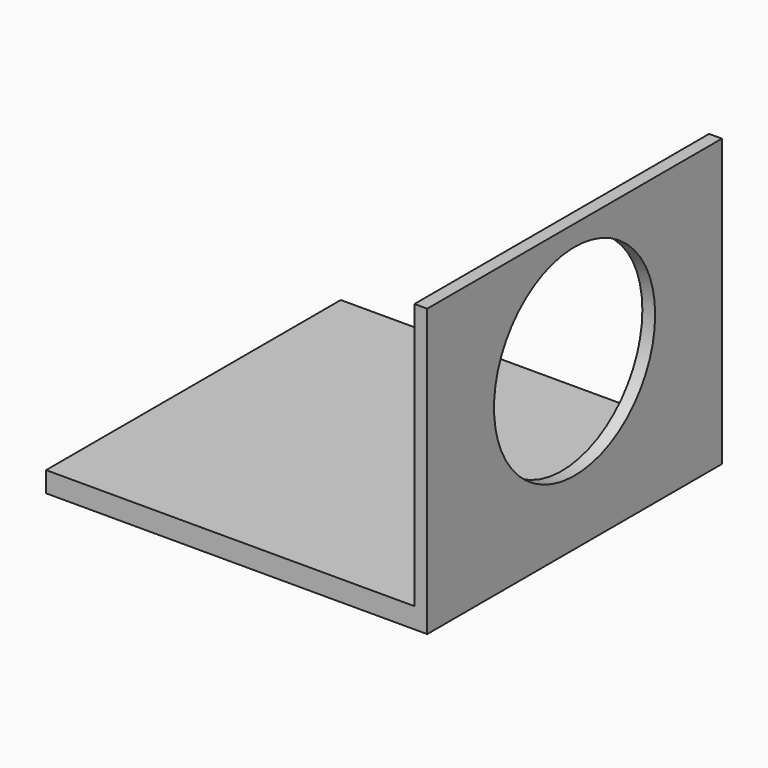
from build123d import *

# Parameters (mm, degrees)
F0_W     = 457.2
F0_H     = 457.2
F1_DEPTH = 25.4
F2_W     = 457.2
F2_H     = 355.6
F3_DEPTH = 15.875
F4_R     = 124.99975
F5_DEPTH = 15.875


with BuildPart() as f1:
    # F0 (on Top) → F1 (new body)
    with BuildSketch(Plane.XY):
        Rectangle(F0_W, F0_H)
    extrude(amount=F1_DEPTH)

    # F2 (on face) → F3 (join)
    with BuildSketch(Plane.YZ.offset(228.6)):
        with Locations((0, 177.8)):
            Rectangle(F2_W, F2_H)
    extrude(amount=F3_DEPTH)

    # F4 (on face) → F5 (cut, through all)
    with BuildSketch(Plane.YZ.offset(244.475)):
        with Locations((0, 205.20025)):
            Circle(F4_R)
    extrude(amount=-F5_DEPTH, mode=Mode.SUBTRACT)


solid = f1.part
